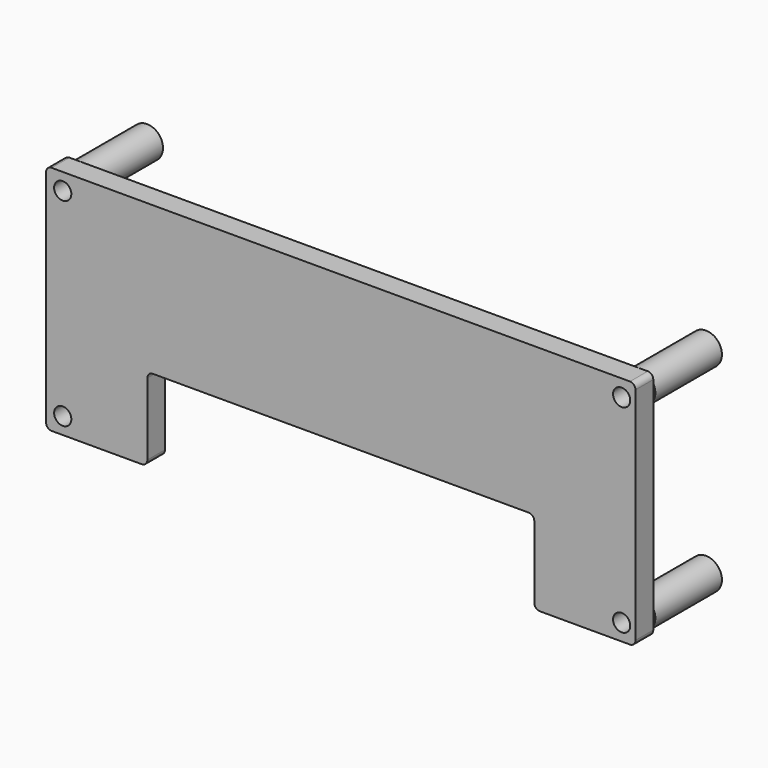
from build123d import *

# Parameters (mm, degrees)
SKETCH026_R                = 2.875
SKETCH026_R_2              = 1.55
EXTRUDE026_DEPTH           = 15
EXTRUDE026_PLACEMENT_ANGLE = 270
SKETCH025_R                = 1.55
EXTRUDE025_DEPTH           = 4
EXTRUDE025_PLACEMENT_ANGLE = 270
FILLET029_R                = 1


with BuildPart() as spacer001:
    # Sketch026 → Extrude026 (new body)
    with BuildSketch(Plane.YZ):
        with Locations((3, 38.75)):
            Circle(SKETCH026_R)
        with Locations((3, 38.75)):
            Circle(SKETCH026_R_2, mode=Mode.SUBTRACT)
        with Locations((3, 3)):
            Circle(SKETCH026_R)
        with Locations((3, 3)):
            Circle(SKETCH026_R_2, mode=Mode.SUBTRACT)
        with Locations((103.75, 3)):
            Circle(SKETCH026_R)
        with Locations((103.75, 3)):
            Circle(SKETCH026_R_2, mode=Mode.SUBTRACT)
        with Locations((103.75, 38.75)):
            Circle(SKETCH026_R)
        with Locations((103.75, 38.75)):
            Circle(SKETCH026_R_2, mode=Mode.SUBTRACT)
    extrude(amount=EXTRUDE026_DEPTH)


with BuildPart() as spacer001_1:
    # Extrude026 placement: moved
    add(spacer001.part.moved(Location((0, -2, 0))).rotate(Axis((0, -2, 0), (0, 0, 1)), EXTRUDE026_PLACEMENT_ANGLE))


with BuildPart() as top_fillet001:
    # Sketch025 → Extrude025 (new body)
    with BuildSketch(Plane.YZ):
        Polygon((106.25, 0), (106.25, 41.75), (0, 41.75), (0, 0), (18.25, 0), (18.25, 15), (88, 15), (88, 0), align=None)
        with Locations((3, 3)):
            Circle(SKETCH025_R, mode=Mode.SUBTRACT)
        with Locations((3, 38.75)):
            Circle(SKETCH025_R, mode=Mode.SUBTRACT)
        with Locations((103.75, 38.75)):
            Circle(SKETCH025_R, mode=Mode.SUBTRACT)
        with Locations((103.75, 3)):
            Circle(SKETCH025_R, mode=Mode.SUBTRACT)
    extrude(amount=EXTRUDE025_DEPTH)


with BuildPart() as top_fillet001_1:
    # Extrude025 placement: moved
    add(top_fillet001.part.moved(Location((0, -17, 0))).rotate(Axis((0, -17, 0), (0, 0, 1)), EXTRUDE025_PLACEMENT_ANGLE))

    # Fusion029: union spacer001
    add(spacer001_1.part)

    # Fillet029
    fillet029_edges = [top_fillet001_1.edges().sort_by_distance(p)[0] for p in [
        (106.25, -19, 0),
        (106.25, -19, 41.75),
        (88, -19, 0),
        (0, -19, 41.75),
        (88, -19, 15),
        (0, -19, 0),
        (18.25, -19, 15),
        (18.25, -19, 0),
    ]]
    fillet(fillet029_edges, radius=FILLET029_R)


solid = top_fillet001_1.part
